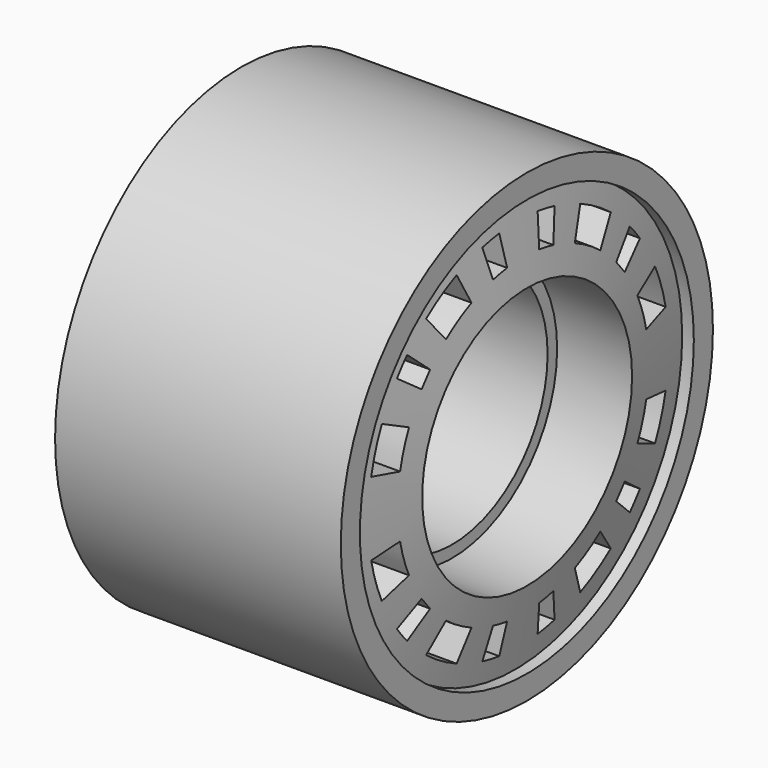
from build123d import *

# Parameters (mm, degrees)
POCKET008_DEPTH               = 25
POCKET008_MIRRORED007_2_DEPTH = 25


with BuildPart() as wheel_inner_back:
    # Sketch012 → Revolution002 (revolve)
    with BuildSketch(Plane(origin=(0, 51, -44), x_dir=(1, 0, 0), z_dir=(0, 0, 1))):
        Polygon((11.977821, -19.5), (-11.977821, -19.5), (-11.977821, -17.5), (-11, -17.5), (-12, -11), (-5.71671, -11), (-5.71671, -10), (5.71671, -10), (5.71671, -11), (12, -11), (11, -17.5), (11.977821, -17.5), align=None)
    revolve(axis=Axis((0, 51, -44), (1, 0, 0)))

    # Sketch037 → Pocket008 (cut, symmetric)
    with BuildSketch(Plane(origin=(0, 51, -44), x_dir=(0, 1, 0), z_dir=(1, 0, 0))):
        with BuildLine():
            ThreePointArc((9.676732, 12.40962), (8.134879, 13.470768), (6.47794, 14.341343))
            Line((6.47794, 14.341343), (5.414774, 11.987628))
            ThreePointArc((8.088578, 10.372942), (6.799775, 11.259932), (5.414774, 11.987628))
            Line((9.676732, 12.40962), (8.088578, 10.372942))
        make_face()
        with BuildLine():
            ThreePointArc((12.734675, 9.244776), (12.219029, 9.916308), (11.668012, 10.559135))
            Line((11.668012, 10.559135), (9.753047, 8.82616))
            ThreePointArc((10.644648, 7.727515), (10.21363, 8.288834), (9.753047, 8.82616))
            Line((12.734675, 9.244776), (10.644648, 7.727515))
        make_face()
        with BuildLine():
            ThreePointArc((3.784525, 15.274659), (2.90254, 15.466515), (2.011007, 15.607488))
            Line((2.011007, 15.607488), (1.680959, 13.045972))
            ThreePointArc((3.163405, 12.767767), (2.426173, 12.928136), (1.680959, 13.045972))
            Line((3.784525, 15.274659), (3.163405, 12.767767))
        make_face()
        with BuildLine():
            ThreePointArc((15.431218, 3.084692), (14.972895, 4.842545), (14.315038, 6.535864))
            Line((14.315038, 6.535864), (11.96564, 5.463192))
            ThreePointArc((12.898632, 2.578429), (12.515529, 4.047782), (11.96564, 5.463192))
            Line((15.431218, 3.084692), (12.898632, 2.578429))
        make_face()
    pocket008 = extrude(amount=POCKET008_DEPTH, both=True, mode=Mode.SUBTRACT)

    # Sketch037 Mirrored007 2 → Pocket008 Mirrored007 2 (cut, symmetric)
    with BuildSketch(Plane(origin=(0, 51, -44), x_dir=(0, -1, 0), z_dir=(-1, 0, 0))):
        with BuildLine():
            ThreePointArc((9.676732, 12.40962), (8.134879, 13.470768), (6.47794, 14.341343))
            Line((6.47794, 14.341343), (5.414774, 11.987628))
            ThreePointArc((8.088578, 10.372942), (6.799775, 11.259932), (5.414774, 11.987628))
            Line((9.676732, 12.40962), (8.088578, 10.372942))
        make_face()
        with BuildLine():
            ThreePointArc((12.734675, 9.244776), (12.219029, 9.916308), (11.668012, 10.559135))
            Line((11.668012, 10.559135), (9.753047, 8.82616))
            ThreePointArc((10.644648, 7.727515), (10.21363, 8.288834), (9.753047, 8.82616))
            Line((12.734675, 9.244776), (10.644648, 7.727515))
        make_face()
        with BuildLine():
            ThreePointArc((3.784525, 15.274659), (2.90254, 15.466515), (2.011007, 15.607488))
            Line((2.011007, 15.607488), (1.680959, 13.045972))
            ThreePointArc((3.163405, 12.767767), (2.426173, 12.928136), (1.680959, 13.045972))
            Line((3.784525, 15.274659), (3.163405, 12.767767))
        make_face()
        with BuildLine():
            ThreePointArc((15.431218, 3.084692), (14.972895, 4.842545), (14.315038, 6.535864))
            Line((14.315038, 6.535864), (11.96564, 5.463192))
            ThreePointArc((12.898632, 2.578429), (12.515529, 4.047782), (11.96564, 5.463192))
            Line((15.431218, 3.084692), (12.898632, 2.578429))
        make_face()
    pocket008_mirrored007_2 = extrude(amount=-POCKET008_MIRRORED007_2_DEPTH, both=True, mode=Mode.SUBTRACT)

    # Mirrored008: Pocket008, Pocket008 Mirrored007 2 across Sketch037 H_Axis
    add(pocket008.mirror(Plane(origin=(0, 51, -44), x_dir=(1, 0, 0), z_dir=(0, 0, 1))), mode=Mode.SUBTRACT)
    add(pocket008_mirrored007_2.mirror(Plane(origin=(0, 51, -44), x_dir=(1, 0, 0), z_dir=(0, 0, 1))), mode=Mode.SUBTRACT)


with BuildPart() as wheel_inner_front:
    # Part__Mirroring009: instance of wheel-inner-back
    add(wheel_inner_back.part.mirror(Plane(origin=(0, -4e-06, -44.000004), x_dir=(1, 0, 0), z_dir=(0, 1, 0))))


solid = wheel_inner_front.part
